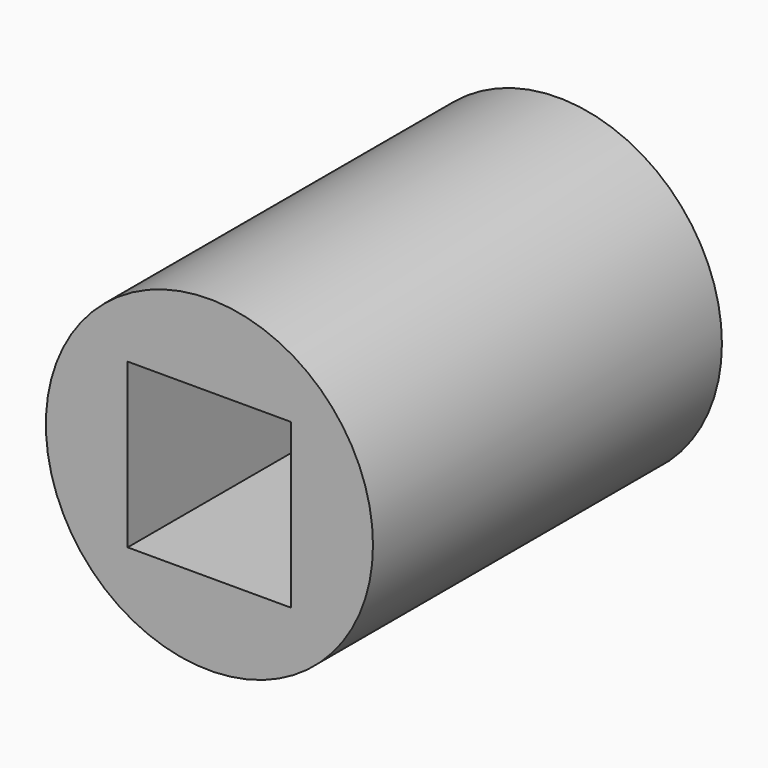
from build123d import *

# Parameters (mm, degrees)
F0_R     = 9.525
F1_DEPTH = 25.4
F3_DEPTH = 25.401
F4_DEPTH = 25.4


with BuildPart() as f1:
    # F0 (on Front) → F1 (new body)
    with BuildSketch(Plane.XZ):
        Circle(F0_R)
    extrude(amount=F1_DEPTH)

    # F2 (on face) → F3 (cut, through all)
    with BuildSketch(Plane.XZ.offset(25.4)):
        with BuildLine():
            ThreePointArc((4.7625, 0), (3.367596, 3.367596), (0, 4.7625))
            ThreePointArc((0, 4.7625), (-3.367596, 3.367596), (-4.7625, 0))
            ThreePointArc((-4.7625, 0), (-3.367596, -3.367596), (0, -4.7625))
            ThreePointArc((0, -4.7625), (3.367596, -3.367596), (4.7625, 0))
        make_face()
    extrude(amount=-F3_DEPTH, mode=Mode.SUBTRACT)

    # F2 (on face) → F4 (cut)
    with BuildSketch(Plane.XZ.offset(25.4)):
        with BuildLine():
            Line((4.7625, 0), (4.7625, 4.7625))
            Line((4.7625, 4.7625), (0, 4.7625))
            ThreePointArc((0, 4.7625), (3.367596, 3.367596), (4.7625, 0))
        make_face()
        with BuildLine():
            ThreePointArc((-4.7625, 0), (-3.367596, 3.367596), (0, 4.7625))
            Line((0, 4.7625), (-4.7625, 4.7625))
            Line((-4.7625, 4.7625), (-4.7625, 0))
        make_face()
        with BuildLine():
            Line((4.7625, -4.7625), (4.7625, 0))
            ThreePointArc((4.7625, 0), (3.367596, -3.367596), (0, -4.7625))
            Line((0, -4.7625), (4.7625, -4.7625))
        make_face()
        with BuildLine():
            ThreePointArc((0, -4.7625), (-3.367596, -3.367596), (-4.7625, 0))
            Line((-4.7625, 0), (-4.7625, -4.7625))
            Line((-4.7625, -4.7625), (0, -4.7625))
        make_face()
    extrude(amount=-F4_DEPTH, mode=Mode.SUBTRACT)


solid = f1.part
